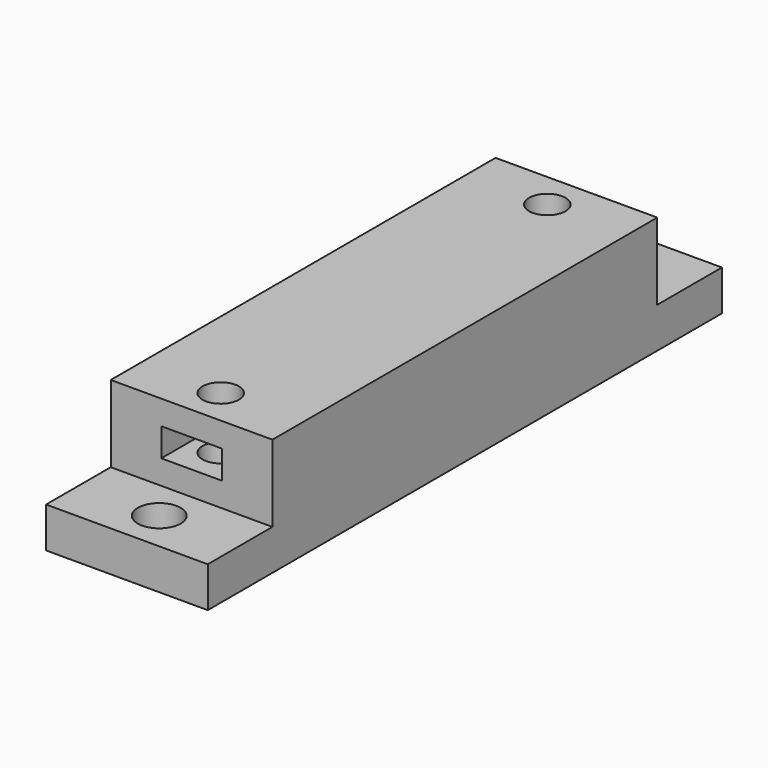
from build123d import *

# Parameters (mm, degrees)
F0_W     = 20
F0_H     = 59.5
F0_R     = 2.25
F1_DEPTH = 9.5
F2_W     = 7.5
F2_H     = 3.5
F3_DEPTH = 10
F4_W     = 7.5
F4_H     = 3.5
F5_DEPTH = 10
F6_W     = 20
F6_H     = 79.5
F7_DEPTH = 5
F8_R     = 2.65
F9_DEPTH = 25


with BuildPart() as f1:
    # F0 (on Top) → F1 (new body)
    with BuildSketch(Plane.XY):
        with Locations((-10, -1.060811)):
            Rectangle(F0_W, F0_H)
        with Locations((-10, -26.310811)):
            Circle(F0_R, mode=Mode.SUBTRACT)
        with Locations((-10, 24.189189)):
            Circle(F0_R, mode=Mode.SUBTRACT)
    extrude(amount=F1_DEPTH)

    # F2 (on face) → F3 (cut)
    with BuildSketch(Plane(origin=(0, 28.689189, 0), x_dir=(-1, 0, 0), z_dir=(0, 1, 0))):
        with Locations((10, 4.75)):
            Rectangle(F2_W, F2_H)
    extrude(amount=-F3_DEPTH, mode=Mode.SUBTRACT)

    # F4 (on face) → F5 (cut)
    with BuildSketch(Plane.XZ.offset(30.810811)):
        with Locations((-10, 4.75)):
            Rectangle(F4_W, F4_H)
    extrude(amount=-F5_DEPTH, mode=Mode.SUBTRACT)

    # F6 (on face) → F7 (join)
    with BuildSketch(Plane(origin=(0, 0, 0), x_dir=(1, 0, 0), z_dir=(0, 0, -1))):
        with Locations((-10, 1.060811)):
            Rectangle(F6_W, F6_H)
    extrude(amount=F7_DEPTH)

    # F8 (on face) → F9 (cut)
    with BuildSketch(Plane.XY):
        with Locations((-10, 33.689189)):
            Circle(F8_R)
        with Locations((-10, -35.810811)):
            Circle(F8_R)
    extrude(amount=-F9_DEPTH, mode=Mode.SUBTRACT)


solid = f1.part
